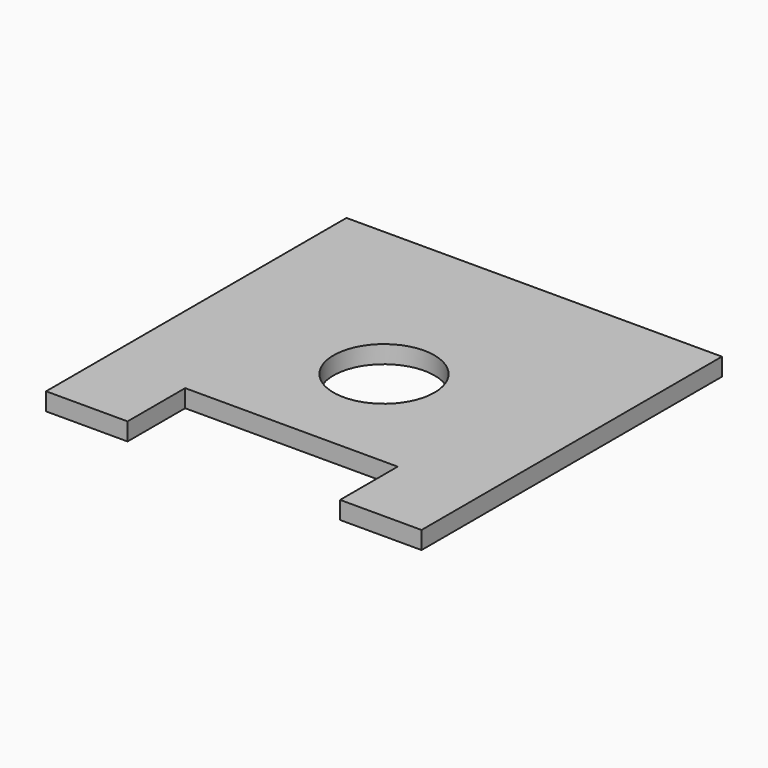
from build123d import *

# Parameters (mm, degrees)
F0_R     = 14.25
F1_DEPTH = 5


with BuildPart() as f1:
    # F0 (on Top) → F1 (new body)
    with BuildSketch(Plane.XY):
        Polygon((53, -53), (53, 53), (-53, 53), (-53, -53), (-30, -53), (-30, -32.670572), (30, -32.670572), (30, -53), align=None)
        Circle(F0_R, mode=Mode.SUBTRACT)
    extrude(amount=F1_DEPTH)


solid = f1.part
